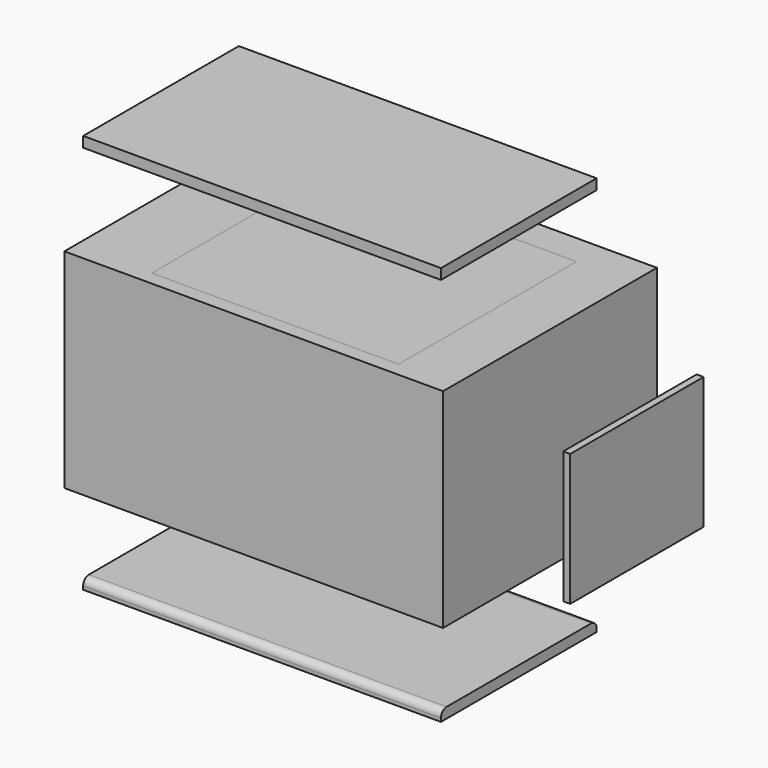
from build123d import *

# Parameters (mm, degrees)
SKETCH_W             = 51.5
SKETCH_H             = 28
PAD_DEPTH            = 1
SKETCH001_R          = 1.5
POCKET_DEPTH         = 5
SKETCH002_W          = 26
SKETCH002_H          = 18
PAD001_DEPTH         = 3
SKETCH006_W          = 3.902349
SKETCH006_H          = 8
PAD004_DEPTH         = 5
BODY_PLACEMENT_ANGLE = 180
SKETCH003_W          = 54.5
SKETCH003_H          = 31
SKETCH003_W_2        = 51.5
SKETCH003_H_2        = 28
PAD002_DEPTH         = 20
PAD002_DEPTH_BACK    = 10
SKETCH004_W          = 28
SKETCH004_H          = 2
PAD003_DEPTH         = 53.026759
SKETCH005_W          = 41.5
SKETCH005_H          = 6
POCKET001_DEPTH      = 5
SKETCH009_W          = 5
SKETCH009_H          = 8
POCKET002_DEPTH      = 5
POCKET002_FACE6_W    = 54.5
POCKET002_FACE6_H    = 30
PAD005_DEPTH         = 6
SKETCH010_W          = 35.630659
SKETCH010_H          = 4.577942
POCKET003_DEPTH      = 5
POCKET003_FACE17_W   = 35.630659
POCKET003_FACE17_H   = 5
POCKET004_DEPTH      = 5
SKETCH011_W          = 26.5
SKETCH011_H          = 5.025935
POCKET005_DEPTH      = 24
SKETCH012_R          = 5
POCKET006_DEPTH      = 5
SKETCH013_W          = 4
SKETCH013_H          = 16
POCKET007_DEPTH      = 5
SKETCH015_W          = 9.49
SKETCH015_H          = 2
SKETCH015_W_2        = 6.383382
PAD006_DEPTH         = 28
SKETCH016_W          = 7.53
SKETCH016_H          = 30
PAD007_DEPTH         = 54.5
PAD007_FACE3_W       = 27.995935
PAD007_FACE3_H       = 2
PAD008_DEPTH         = 43.536759
POCKET008_DEPTH      = 1
POCKET008_FACE9_W    = 1.473241
POCKET008_FACE9_H    = 5
POCKET009_DEPTH      = 1
SKETCH017_W          = 27
SKETCH017_H          = 27
POCKET010_DEPTH      = 4
POCKET010_FACE6_W    = 54.5
POCKET010_FACE6_H    = 30
PAD009_DEPTH         = 0.47
PAD009_FACE3_W       = 54.5
PAD009_FACE3_H       = 30
PAD010_DEPTH         = 0.47
PAD010_FACE3_W       = 54.5
PAD010_FACE3_H       = 30
POCKET011_DEPTH      = 0.47
POCKET011_FACE6_W    = 54.5
POCKET011_FACE6_H    = 30
PAD011_DEPTH         = 1
SKETCH018_W          = 26
SKETCH018_H          = 4
POCKET012_DEPTH      = 21
POCKET012_FACE34_W   = 4
POCKET012_FACE34_H   = 26
POCKET013_DEPTH      = 5
SKETCH019_W          = 22
SKETCH019_H          = 4
POCKET014_DEPTH      = 5
SKETCH020_R          = 5
POCKET015_DEPTH      = 5
POCKET015_FACE39_W   = 41.5
POCKET015_FACE39_H   = 2
POCKET016_DEPTH      = 2
BOX001_W             = 51.5
BOX001_H             = 28
BOX001_DEPTH         = 1.5
BOX002_W             = 35.5
BOX002_H             = 32
BOX002_DEPTH         = 1
BOX_W                = 51.5
BOX_H                = 28
BOX_DEPTH            = 1.5
FILLET_R             = 1
FILLET001_R          = 1
BOX003_W             = 1
BOX003_H             = 24
BOX003_DEPTH         = 19


with BuildPart() as esp32:
    # Sketch → Pad (new body)
    with BuildSketch(Plane.XY):
        with Locations((25.75, 14)):
            Rectangle(SKETCH_W, SKETCH_H)
    extrude(amount=PAD_DEPTH)

    # Sketch001 (on Face6 of Pad) → Pocket (cut)
    with BuildSketch(Plane.XY.offset(1)):
        with Locations((2.5, 2.5)):
            Circle(SKETCH001_R)
        with Locations((2.5, 25.5)):
            Circle(SKETCH001_R)
        with Locations((49, 25.5)):
            Circle(SKETCH001_R)
        with Locations((49, 2.5)):
            Circle(SKETCH001_R)
    extrude(amount=-POCKET_DEPTH, mode=Mode.SUBTRACT)

    # Sketch002 (on Face5 of Pocket) → Pad001 (join)
    with BuildSketch(Plane.XY.offset(1)):
        with Locations((38.499119, 14)):
            Rectangle(SKETCH002_W, SKETCH002_H)
    extrude(amount=PAD001_DEPTH)

    # Sketch006 (on Face5 of Pad001) → Pad004 (join)
    with BuildSketch(Plane.XY.offset(1)):
        with Locations((1.9511745, 14)):
            Rectangle(SKETCH006_W, SKETCH006_H)
    extrude(amount=PAD004_DEPTH)


with BuildPart() as esp32_1:
    # Body placement: moved
    add(esp32.part.moved(Location((1.5, 29.5, 0))).rotate(Axis((1.5, 29.5, 0), (1, 0, 0)), BODY_PLACEMENT_ANGLE))


with BuildPart() as body001:
    # Sketch003 → Pad002 (new body, two sides)
    with BuildSketch(Plane.XY) as pad002_sk:
        with Locations((27.25, 15.5)):
            Rectangle(SKETCH003_W, SKETCH003_H)
        with Locations((27.223241, 15.474065)):
            Rectangle(SKETCH003_W_2, SKETCH003_H_2, mode=Mode.SUBTRACT)
    extrude(amount=PAD002_DEPTH)
    extrude(pad002_sk.sketch, amount=-PAD002_DEPTH_BACK)

    # Sketch004 (on Face5 of Pad002) → Pad003 (join)
    with BuildSketch(Plane.YZ.offset(1.473241)):
        with Locations((15.474065, 1.979288)):
            Rectangle(SKETCH004_W, SKETCH004_H)
    extrude(amount=PAD003_DEPTH)

    # Sketch005 (on Face15 of Pad003) → Pocket001 (cut)
    with BuildSketch(Plane.XY.offset(2.979288)):
        with Locations((27.223241, 26.474065)):
            Rectangle(SKETCH005_W, SKETCH005_H)
        with Locations((27.223241, 4.474065)):
            Rectangle(SKETCH005_W, SKETCH005_H)
    extrude(amount=-POCKET001_DEPTH, mode=Mode.SUBTRACT)

    # Sketch009 (on Face7 of Pocket001) → Pocket002 (cut)
    with BuildSketch(Plane(origin=(1.473241, 15.474065, -4.510356), x_dir=(0, 0, 1), z_dir=(1, 0, 0))):
        with Locations((2.989644, 0)):
            Rectangle(SKETCH009_W, SKETCH009_H)
    extrude(amount=-POCKET002_DEPTH, mode=Mode.SUBTRACT)

    # Pocket002 Face6 → Pad005 (add)
    with BuildSketch(Plane(origin=(27.25, 31, 5), x_dir=(1, 0, 0), z_dir=(0, 1, 0))):
        Rectangle(POCKET002_FACE6_W, POCKET002_FACE6_H)
    extrude(amount=PAD005_DEPTH)

    # Sketch010 (on Face23 of Pad005) → Pocket003 (cut)
    with BuildSketch(Plane.XY.offset(20)):
        with Locations((28.7745295, 31.796246)):
            Rectangle(SKETCH010_W, SKETCH010_H)
    extrude(amount=-POCKET003_DEPTH, mode=Mode.SUBTRACT)

    # Pocket003 Face17 → Pocket004 (cut)
    with BuildSketch(Plane(origin=(28.7745295, 29.507275, 17.5), x_dir=(1, 0, 0), z_dir=(0, 1, 0))):
        Rectangle(POCKET003_FACE17_W, POCKET003_FACE17_H)
    extrude(amount=-POCKET004_DEPTH, mode=Mode.SUBTRACT)

    # Sketch011 (on Face4 of Pocket004) → Pocket005 (cut)
    with BuildSketch(Plane(origin=(0, 0, -10), x_dir=(1, 0, 0), z_dir=(0, 0, -1))):
        with Locations((27.25, -33.2370325)):
            Rectangle(SKETCH011_W, SKETCH011_H)
    extrude(amount=-POCKET005_DEPTH, mode=Mode.SUBTRACT)

    # Sketch012 (on Face18 of Pocket005) → Pocket006 (cut)
    with BuildSketch(Plane(origin=(0, 30.724065, 0), x_dir=(-1, 0, 0), z_dir=(0, 1, 0))):
        with Locations((-24, 2)):
            Circle(SKETCH012_R)
    extrude(amount=-POCKET006_DEPTH, mode=Mode.SUBTRACT)

    # Sketch013 (on Face6 of Pocket006) → Pocket007 (cut)
    with BuildSketch(Plane(origin=(0, 37, 0), x_dir=(-1, 0, 0), z_dir=(0, 1, 0))):
        with Locations((-36, 5)):
            Rectangle(SKETCH013_W, SKETCH013_H)
        with Locations((-30, 5)):
            Rectangle(SKETCH013_W, SKETCH013_H)
        with Locations((-24, 5)):
            Rectangle(SKETCH013_W, SKETCH013_H)
        with Locations((-18, 5)):
            Rectangle(SKETCH013_W, SKETCH013_H)
    extrude(amount=-POCKET007_DEPTH, mode=Mode.SUBTRACT)

    # Sketch015 (on Face12 of Pocket007) → Pad006 (join)
    with BuildSketch(Plane.XZ.offset(-29.474065)):
        with Locations((6.218241, 19)):
            Rectangle(SKETCH015_W, SKETCH015_H)
        with Locations((49.78155, 19)):
            Rectangle(SKETCH015_W_2, SKETCH015_H)
    extrude(amount=PAD006_DEPTH)

    # Sketch016 (on Face4 of Pad006) → Pad007 (join)
    with BuildSketch(Plane(origin=(0, 0, 0), x_dir=(0, -1, 0), z_dir=(-1, 0, 0))):
        with Locations((-33.235, 5)):
            Rectangle(SKETCH016_W, SKETCH016_H)
    extrude(amount=-PAD007_DEPTH)

    # Pad007 Face3 → Pad008 (add)
    with BuildSketch(Plane(origin=(10.963241, 15.4720325, 19), x_dir=(0, -1, 0), z_dir=(1, 0, 0))):
        Rectangle(PAD007_FACE3_W, PAD007_FACE3_H)
    extrude(amount=PAD008_DEPTH)

    # Pad008 Face10 → Pocket008 (cut)
    with BuildSketch(Plane(origin=(27.223241, 29.47, 4.0284207032), x_dir=(-1, 0, 0), z_dir=(0, -1, 0))):
        Polygon((20.75, 3.0491327032), (25.75, 3.0491327032), (25.75, 14.0284207032), (-25.75, 14.0284207032), (-25.75, 3.0491327032), (-20.75, 3.0491327032), (-20.75, 1.0491327032), (-25.75, 1.0491327032), (-25.75, -13.9715792968), (25.75, -13.9715792968), (25.75, 1.0491327032), (20.75, 1.0491327032), align=None)
    extrude(amount=-POCKET008_DEPTH, mode=Mode.SUBTRACT)

    # Pocket008 Face9 → Pocket009 (cut)
    with BuildSketch(Plane(origin=(0.7366205, 19.474065, -1.520712), x_dir=(-1, 0, 0), z_dir=(0, -1, 0))):
        Rectangle(POCKET008_FACE9_W, POCKET008_FACE9_H)
    extrude(amount=-POCKET009_DEPTH, mode=Mode.SUBTRACT)

    # Sketch017 (on Face23 of Pad008) → Pocket010 (cut)
    with BuildSketch(Plane.XY.offset(20)):
        with Locations((27.25, 18.5)):
            Rectangle(SKETCH017_W, SKETCH017_H)
    extrude(amount=-POCKET010_DEPTH, mode=Mode.SUBTRACT)

    # Pocket010 Face6 → Pad009 (add)
    with BuildSketch(Plane(origin=(27.25, 37, 5), x_dir=(1, 0, 0), z_dir=(0, 1, 0))):
        Rectangle(POCKET010_FACE6_W, POCKET010_FACE6_H)
    extrude(amount=PAD009_DEPTH)

    # Pad009 Face3 → Pad010 (add)
    with BuildSketch(Plane(origin=(27.25, 37.47, 5), x_dir=(1, 0, 0), z_dir=(0, 1, 0))):
        Rectangle(PAD009_FACE3_W, PAD009_FACE3_H)
    extrude(amount=PAD010_DEPTH)

    # Pad010 Face3 → Pocket011 (cut)
    with BuildSketch(Plane(origin=(27.25, 37.94, 5), x_dir=(1, 0, 0), z_dir=(0, 1, 0))):
        Rectangle(PAD010_FACE3_W, PAD010_FACE3_H)
    extrude(amount=-POCKET011_DEPTH, mode=Mode.SUBTRACT)

    # Pocket011 Face6 → Pad011 (add)
    with BuildSketch(Plane(origin=(27.25, 37.47, 5), x_dir=(1, 0, 0), z_dir=(0, 1, 0))):
        Rectangle(POCKET011_FACE6_W, POCKET011_FACE6_H)
    extrude(amount=PAD011_DEPTH)

    # Sketch018 (on Face28 of Pad011) → Pocket012 (cut)
    with BuildSketch(Plane(origin=(0, 0, -10), x_dir=(1, 0, 0), z_dir=(0, 0, -1))):
        with Locations((27.25, -34.47)):
            Rectangle(SKETCH018_W, SKETCH018_H)
    extrude(amount=-POCKET012_DEPTH, mode=Mode.SUBTRACT)

    # Pocket012 Face34 → Pocket013 (cut)
    with BuildSketch(Plane(origin=(27.25, 34.47, 11), x_dir=(0, -1, 0), z_dir=(0, 0, -1))):
        Rectangle(POCKET012_FACE34_W, POCKET012_FACE34_H)
    extrude(amount=-POCKET013_DEPTH, mode=Mode.SUBTRACT)

    # Sketch019 (on Face6 of Pocket013) → Pocket014 (cut)
    with BuildSketch(Plane(origin=(0, 38.47, 0), x_dir=(-1, 0, 0), z_dir=(0, 1, 0))):
        with Locations((-27.25, 12)):
            Rectangle(SKETCH019_W, SKETCH019_H)
        with Locations((-27.25, 6)):
            Rectangle(SKETCH019_W, SKETCH019_H)
        with Locations((-27.25, 0)):
            Rectangle(SKETCH019_W, SKETCH019_H)
    extrude(amount=-POCKET014_DEPTH, mode=Mode.SUBTRACT)

    # Sketch020 (on Face18 of Pocket014) → Pocket015 (cut)
    with BuildSketch(Plane(origin=(0, 32.47, 0), x_dir=(-1, 0, 0), z_dir=(0, 1, 0))):
        with Locations((-27.25, 3)):
            Circle(SKETCH020_R)
    extrude(amount=-POCKET015_DEPTH, mode=Mode.SUBTRACT)

    # Pocket015 Face39 → Pocket016 (cut)
    with BuildSketch(Plane(origin=(27.223241, 7.474065, 1.979288), x_dir=(-1, 0, 0), z_dir=(0, -1, 0))):
        Rectangle(POCKET015_FACE39_W, POCKET015_FACE39_H)
    extrude(amount=-POCKET016_DEPTH, mode=Mode.SUBTRACT)


with BuildPart() as box001:
    # Box001 → Box001 (new body)
    with BuildSketch(Plane(origin=(1.5, 1.5, 33), x_dir=(1, 0, 0), z_dir=(0, 0, 1))):
        with Locations((25.75, 14)):
            Rectangle(BOX001_W, BOX001_H)
    extrude(amount=BOX001_DEPTH)


with BuildPart() as box002:
    # Box002 → Box002 (new body)
    with BuildSketch(Plane(origin=(11, 2, 19), x_dir=(1, 0, 0), z_dir=(0, 0, 1))):
        with Locations((17.75, 16)):
            Rectangle(BOX002_W, BOX002_H)
    extrude(amount=BOX002_DEPTH)


with BuildPart() as fillet001:
    # Box → Box (new body)
    with BuildSketch(Plane(origin=(1.5, 1.5, -23), x_dir=(1, 0, 0), z_dir=(0, 0, 1))):
        with Locations((25.75, 14)):
            Rectangle(BOX_W, BOX_H)
    extrude(amount=BOX_DEPTH)

    # Fillet
    fillet_edges = [fillet001.edges().sort_by_distance(p)[0] for p in [
        (27.25, 29.5, -21.5),
    ]]
    fillet(fillet_edges, radius=FILLET_R)

    # Fillet001
    fillet001_edges = [fillet001.edges().sort_by_distance(p)[0] for p in [
        (27.25, 1.5, -21.5),
    ]]
    fillet(fillet001_edges, radius=FILLET001_R)


with BuildPart() as sensor:
    # Box003 → Box003 (new body)
    with BuildSketch(Plane(origin=(67, 6, -5), x_dir=(1, 0, 0), z_dir=(0, 0, 1))):
        with Locations((0.5, 12)):
            Rectangle(BOX003_W, BOX003_H)
    extrude(amount=BOX003_DEPTH)


solid = Compound([esp32_1.part, body001.part, box001.part, box002.part, fillet001.part, sensor.part])
